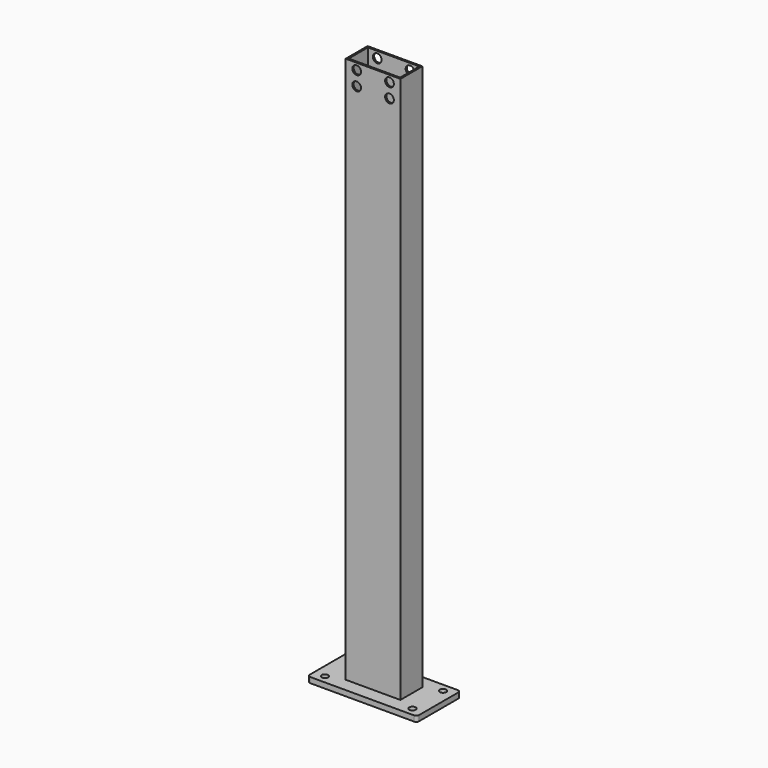
from build123d import *

# Parameters (mm, degrees)
F0_W     = 100
F0_H     = 50
F0_W_2   = 94
F0_H_2   = 44
F1_DEPTH = 1000
F2_W     = 200
F2_H     = 100
F3_DEPTH = 10
F4_R     = 6
F5_DEPTH = 25
F6_R     = 5
F7_R     = 8
F8_DEPTH = 50


with BuildPart() as f1:
    # F0 (on Top) → F1 (new body)
    with BuildSketch(Plane.XY):
        Rectangle(F0_W, F0_H)
        Rectangle(F0_W_2, F0_H_2, mode=Mode.SUBTRACT)
    extrude(amount=F1_DEPTH)

    # F2 (on Top) → F3 (join)
    with BuildSketch(Plane.XY):
        Rectangle(F2_W, F2_H)
    extrude(amount=-F3_DEPTH)

    # F4 (on face) → F5 (cut)
    with BuildSketch(Plane(origin=(0, 0, -10), x_dir=(1, 0, 0), z_dir=(0, 0, -1))):
        with Locations((-80, 35)):
            Circle(F4_R)
        with Locations((-80, -35)):
            Circle(F4_R)
        with Locations((80, 35)):
            Circle(F4_R)
        with Locations((80, -35)):
            Circle(F4_R)
    extrude(amount=-F5_DEPTH, mode=Mode.SUBTRACT)

    # F6
    f6_edges = [f1.edges().sort_by_distance(p)[0] for p in [
        (100, -50, -5),
        (100, 50, -5),
        (-100, -50, -5),
        (-100, 50, -5),
    ]]
    fillet(f6_edges, radius=F6_R)

    # F7 (on face) → F8 (cut)
    with BuildSketch(Plane.XZ.offset(25)):
        with Locations((-30, 988)):
            Circle(F7_R)
        with Locations((30, 988)):
            Circle(F7_R)
        with Locations((30, 962)):
            Circle(F7_R)
        with Locations((-30, 962)):
            Circle(F7_R)
    extrude(amount=-F8_DEPTH, mode=Mode.SUBTRACT)


solid = f1.part
